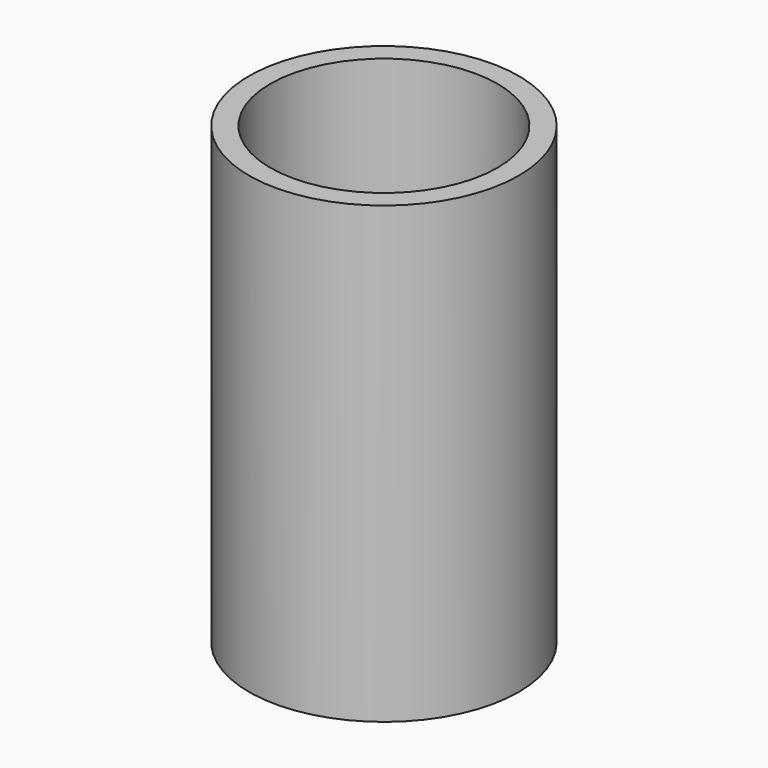
from build123d import *

# Parameters (mm, degrees)
F1_R     = 301.531746
F1_R_2   = 254
F2_DEPTH = 1016


with BuildPart() as f2:
    # F1 (on face) → F2 (new body)
    with BuildSketch(Plane.XY):
        Circle(F1_R)
        Circle(F1_R_2, mode=Mode.SUBTRACT)
    extrude(amount=F2_DEPTH)


solid = f2.part
